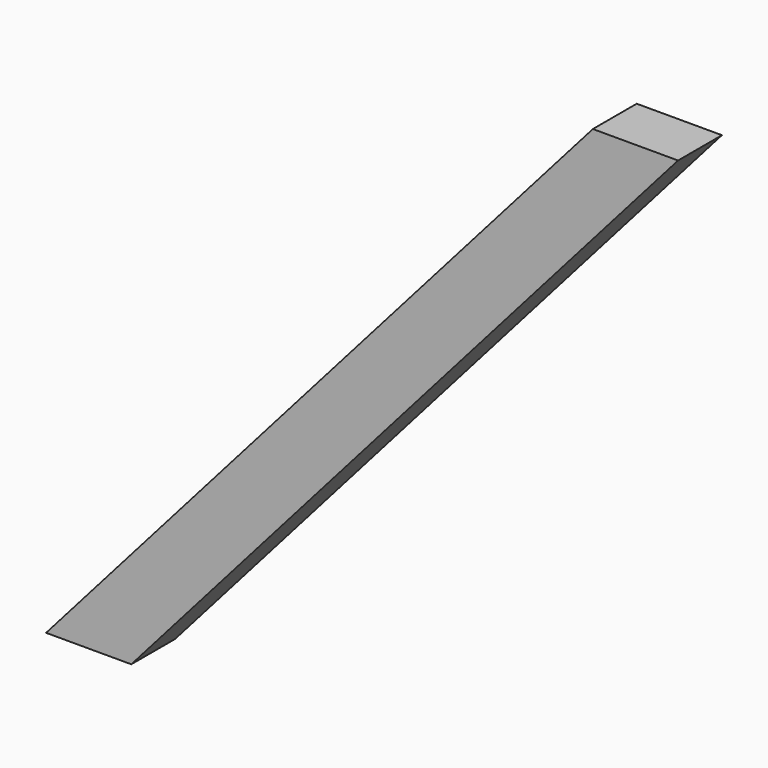
from build123d import *

# Parameters (mm, degrees)
F2_DEPTH = 76.2


with BuildPart() as f2:
    # F1 (on face) → F2 (new body)
    with BuildSketch(Plane.XZ):
        Polygon((901.7, 0), (1661.668, 863.6), (1543.247327, 863.6), (783.279327, 0), align=None)
    extrude(amount=F2_DEPTH)


solid = f2.part
